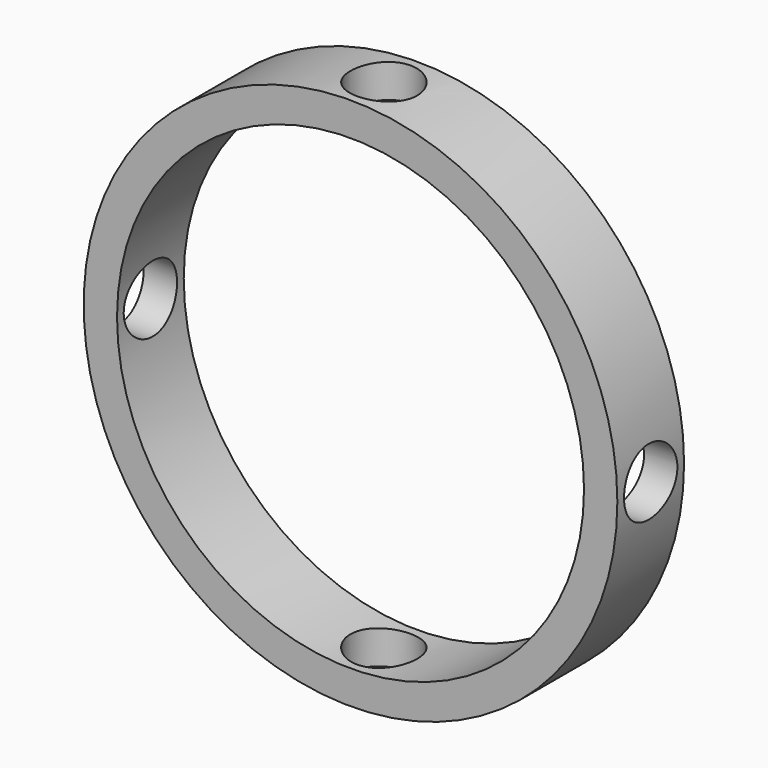
from build123d import *

# Parameters (mm, degrees)
F0_R     = 16
F0_R_2   = 14
F1_DEPTH = 5
F4_D     = 4
F7_D     = 4


with BuildPart() as f1:
    # F0 (on Front) → F1 (new body)
    with BuildSketch(Plane.XZ):
        Circle(F0_R)
        Circle(F0_R_2, mode=Mode.SUBTRACT)
    extrude(amount=F1_DEPTH)

    # F4 (through all)
    with Locations(Plane.YZ.offset(16)):
        with Locations((-2.5, 0)):
            Hole(F4_D / 2)

    # F7 (through all)
    with Locations(Plane.XY.offset(16)):
        with Locations((0, -2.5)):
            Hole(F7_D / 2)


solid = f1.part
